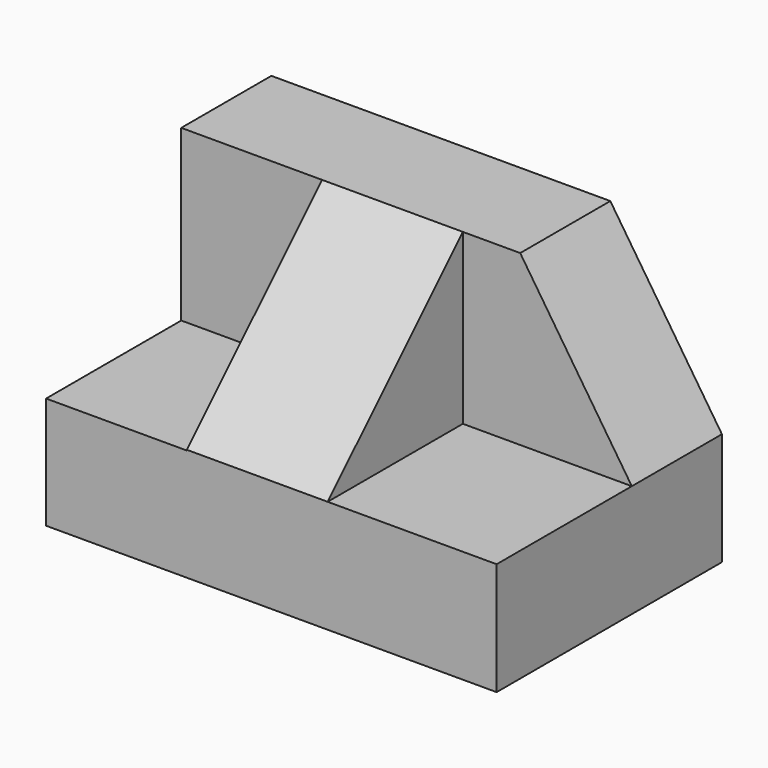
from build123d import *

# Parameters (mm, degrees)
F0_W     = 50.8
F0_H     = 31.75
F1_DEPTH = 31.75
F2_W     = 19.05
F2_H     = 19.05
F3_DEPTH = 19.05
F5_DEPTH = 25.4
F6_W     = 15.875
F6_H     = 19.124309
F7_DEPTH = 19.05
F9_DEPTH = 25.4


with BuildPart() as f1:
    # F0 (on Front) → F1 (new body)
    with BuildSketch(Plane.XZ):
        with Locations((25.4, 15.875)):
            Rectangle(F0_W, F0_H)
    extrude(amount=F1_DEPTH)

    # F2 (on face) → F3 (cut)
    with BuildSketch(Plane.XZ.offset(31.75)):
        with Locations((41.275, 22.225)):
            Rectangle(F2_W, F2_H)
    extrude(amount=-F3_DEPTH, mode=Mode.SUBTRACT)

    # F4 (on face) → F5 (cut)
    with BuildSketch(Plane.XZ.offset(12.7)):
        Polygon((50.8, 31.75), (38.217137, 31.75), (50.8, 12.7), align=None)
    extrude(amount=-F5_DEPTH, mode=Mode.SUBTRACT)

    # F6 (on face) → F7 (cut)
    with BuildSketch(Plane.XZ.offset(31.75)):
        with Locations((7.9375, 22.187846)):
            Rectangle(F6_W, F6_H)
    extrude(amount=-F7_DEPTH, mode=Mode.SUBTRACT)

    # F8 (on face) → F9 (cut)
    with BuildSketch(Plane.YZ.offset(31.75)):
        Polygon((-31.75, 12.7), (-12.7, 31.75), (-31.75, 31.75), align=None)
    extrude(amount=-F9_DEPTH, mode=Mode.SUBTRACT)


solid = f1.part
